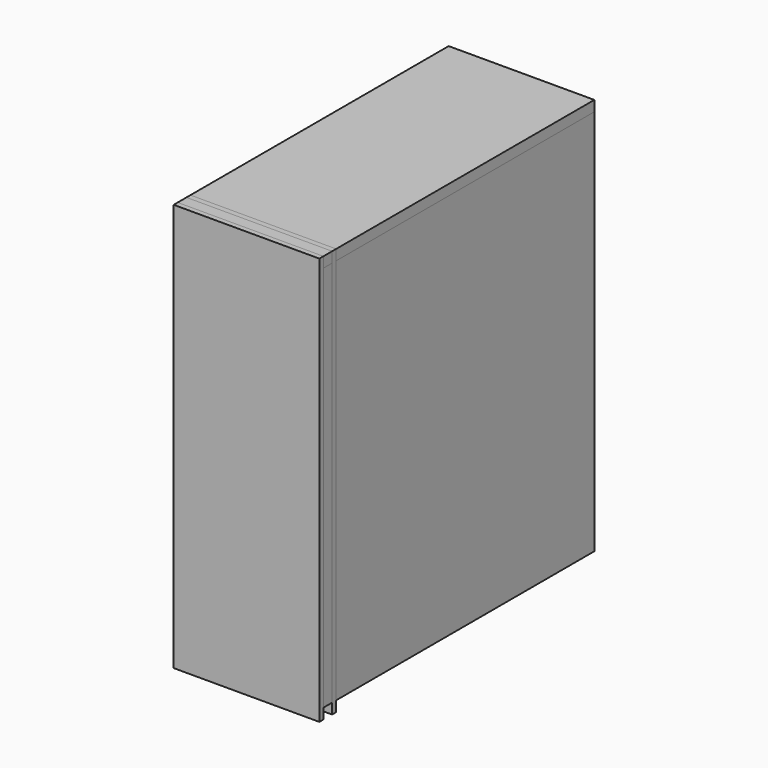
from build123d import *

# Parameters (mm, degrees)
F0_W      = 254
F0_H      = 711.2
F1_DEPTH  = 18.288
F2_W      = 9.525
F2_H      = 18.288
F4_W      = 9.525
F4_H      = 18.288
F5_DEPTH  = 235.712
F7_DEPTH  = 590.55
F9_DEPTH  = 590.55
F10_W     = 235.712
F10_H     = 18.288
F11_DEPTH = 590.55


with BuildPart() as f1:
    # F0 (on Front) → F1 (new body)
    with BuildSketch(Plane.XZ):
        with Locations((127, 355.6)):
            Rectangle(F0_W, F0_H)
    extrude(amount=F1_DEPTH)

    # F3: sweep along a path in F3_path
    with BuildLine(Plane(origin=(0, 0, 711.2), x_dir=(0, 0, 1), z_dir=(0, -1, 0))) as f3_path:
        Line((0, 0), (0, -254))
        Line((0, -254), (-711.2, -254))
        Line((-711.2, -254), (-711.2, 0))
    # F2 (on face) → F3 (sweep, cut)
    with BuildSketch(Plane(origin=(0, 0, 0), x_dir=(0, -1, 0), z_dir=(-1, 0, 0))):
        with Locations((4.7625, 702.056)):
            Rectangle(F2_W, F2_H)
    sweep(path=f3_path.line, transition=Transition.RIGHT, mode=Mode.SUBTRACT)

    # F4 (on face) → F5 (cut, through all)
    with BuildSketch(Plane(origin=(0, 0, 0), x_dir=(0, -1, 0), z_dir=(-1, 0, 0))):
        with Locations((4.7625, 355.6)):
            Rectangle(F4_W, F4_H)
    extrude(amount=-F5_DEPTH, mode=Mode.SUBTRACT)


with BuildPart() as f7:
    # F6 (on face) → F7 (new body)
    with BuildSketch(Plane(origin=(0, -9.525, 0), x_dir=(-1, 0, 0), z_dir=(0, 1, 0))):
        Polygon((0, 692.912), (0, 711.2), (-254, 711.2), (-254, 692.912), (-235.712, 692.912), align=None)
    extrude(amount=F7_DEPTH)


with BuildPart() as f9:
    # F8 (on face) → F9 (new body, through all)
    with BuildSketch(Plane(origin=(0, -9.525, 0), x_dir=(-1, 0, 0), z_dir=(0, 1, 0))):
        Polygon((-235.712, 364.744), (-235.712, 692.912), (-254, 692.912), (-254, 18.288), (-235.712, 18.288), (-235.712, 346.456), align=None)
    extrude(amount=F9_DEPTH)


with BuildPart() as f11:
    # F10 (on face) → F11 (new body, through all)
    with BuildSketch(Plane(origin=(0, -9.525, 0), x_dir=(-1, 0, 0), z_dir=(0, 1, 0))):
        with Locations((-117.856, 355.6)):
            Rectangle(F10_W, F10_H)
    extrude(amount=F11_DEPTH)


with BuildPart() as f12_1:
    # F12: instance of F1
    add(f1.part.mirror(Plane.XZ))


solid = Compound([f1.part, f7.part, f9.part, f11.part, f12_1.part])
